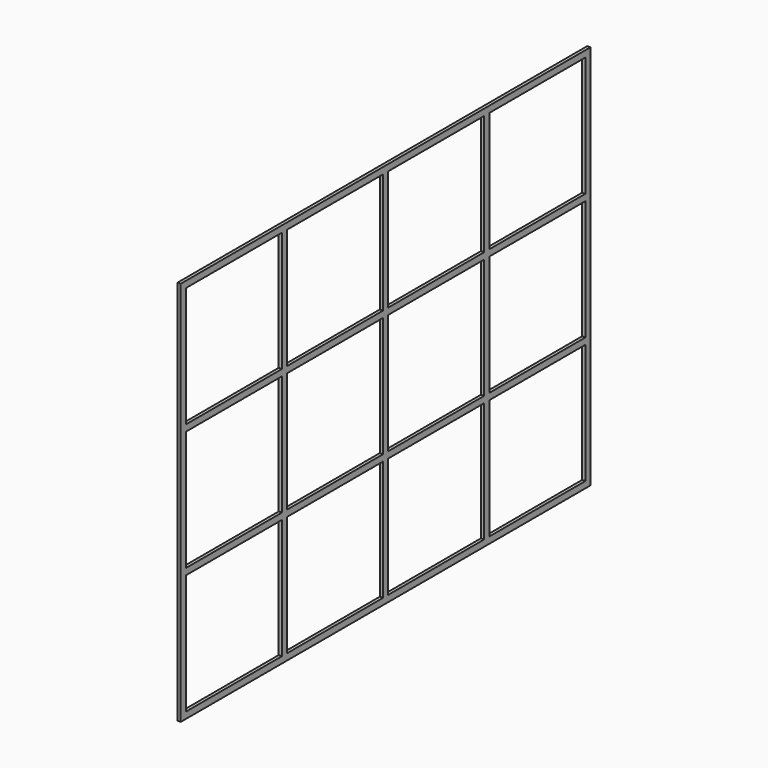
from build123d import *

# Parameters (mm, degrees)
F0_W     = 355.6
F0_H     = 355.6
F1_DEPTH = 9.525


with BuildPart() as f1:
    # F0 (on Right) → F1 (new body)
    with BuildSketch(Plane.YZ):
        Polygon((758.825, -571.5), (758.825, 571.5), (-739.775, 571.5), (-758.825, 571.5), (-758.825, 552.45), (-758.825, -571.5), align=None)
        with Locations((-561.975, -374.65)):
            Rectangle(F0_W, F0_H, mode=Mode.SUBTRACT)
        with Locations((-187.325, -374.65)):
            Rectangle(F0_W, F0_H, mode=Mode.SUBTRACT)
        with Locations((187.325, -374.65)):
            Rectangle(F0_W, F0_H, mode=Mode.SUBTRACT)
        with Locations((561.975, -374.65)):
            Rectangle(F0_W, F0_H, mode=Mode.SUBTRACT)
        with Locations((-561.975, 0)):
            Rectangle(F0_W, F0_H, mode=Mode.SUBTRACT)
        with Locations((-187.325, 0)):
            Rectangle(F0_W, F0_H, mode=Mode.SUBTRACT)
        with Locations((-561.975, 374.65)):
            Rectangle(F0_W, F0_H, mode=Mode.SUBTRACT)
        with Locations((-187.325, 374.65)):
            Rectangle(F0_W, F0_H, mode=Mode.SUBTRACT)
        with Locations((187.325, 0)):
            Rectangle(F0_W, F0_H, mode=Mode.SUBTRACT)
        with Locations((561.975, 0)):
            Rectangle(F0_W, F0_H, mode=Mode.SUBTRACT)
        with Locations((187.325, 374.65)):
            Rectangle(F0_W, F0_H, mode=Mode.SUBTRACT)
        with Locations((561.975, 374.65)):
            Rectangle(F0_W, F0_H, mode=Mode.SUBTRACT)
    extrude(amount=F1_DEPTH)


solid = f1.part
